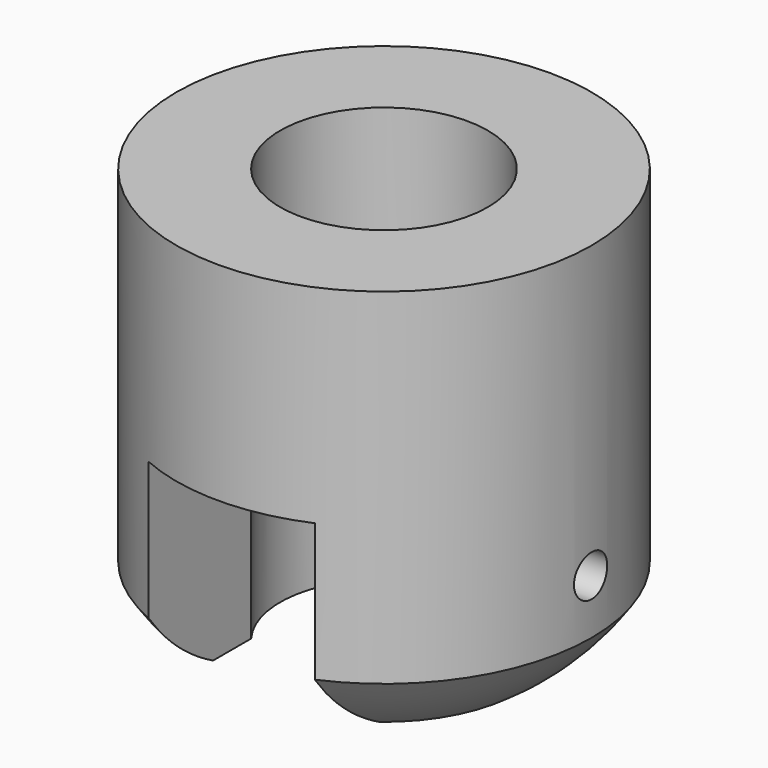
from build123d import *

# Parameters (mm, degrees)
CYLINDER011_R     = 3
CYLINDER011_DEPTH = 10
CYLINDER010_R     = 5
CYLINDER010_DEPTH = 4
CYLINDER009_R     = 0.5
CYLINDER009_DEPTH = 10
CYLINDER007_R     = 2.5
CYLINDER007_DEPTH = 10
BOX001_W          = 4
BOX001_H          = 10
BOX001_DEPTH      = 5
CYLINDER008_R     = 5
CYLINDER008_DEPTH = 10


with BuildPart() as cylinder011:
    # Cylinder011 → Cylinder011 (new body)
    with BuildSketch(Plane(origin=(18, 0, -6), x_dir=(1, 0, 0), z_dir=(0, 0, 1))):
        Circle(CYLINDER011_R)
    extrude(amount=CYLINDER011_DEPTH)


with BuildPart() as cut006:
    # Cylinder010 → Cylinder010 (new body)
    with BuildSketch(Plane(origin=(18, 0, -4), x_dir=(1, 0, 0), z_dir=(0, 0, 1))):
        Circle(CYLINDER010_R)
    extrude(amount=CYLINDER010_DEPTH)

    # Cut006: cut Cylinder011
    add(cylinder011.part, mode=Mode.SUBTRACT)


with BuildPart() as cut006_1:
    # Cut006 placement: moved
    add(cut006.part.moved(Location((-18, 0, 0))))


with BuildPart() as sphere002:
    # Sphere002 → Sphere002 (revolve)
    with BuildSketch(Plane(origin=(0, 0, -5), x_dir=(1, 0, 0), z_dir=(0, -1, 0))):
        with BuildLine():
            ThreePointArc((0, -6), (6, 0), (0, 6))
            Line((0, 6), (0, -6))
        make_face()
    revolve(axis=Axis((0, 0, -5), (0, 0, 1)))


with BuildPart() as cylinder009:
    # Cylinder009 → Cylinder009 (new body)
    with BuildSketch(Plane(origin=(5, 0, -7), x_dir=(0, 0, 1), z_dir=(-1, 0, 0))):
        Circle(CYLINDER009_R)
    extrude(amount=CYLINDER009_DEPTH)


with BuildPart() as cylinder007:
    # Cylinder007 → Cylinder007 (new body)
    with BuildSketch(Plane.XY.offset(-10)):
        Circle(CYLINDER007_R)
    extrude(amount=CYLINDER007_DEPTH)


with BuildPart() as cube001:
    # Box001 → Box001 (new body)
    with BuildSketch(Plane(origin=(-2, -5, -10), x_dir=(1, 0, 0), z_dir=(0, 0, 1))):
        with Locations((2, 5)):
            Rectangle(BOX001_W, BOX001_H)
    extrude(amount=BOX001_DEPTH)


with BuildPart() as fusion002:
    # Cylinder008 → Cylinder008 (new body)
    with BuildSketch(Plane.XY.offset(-10)):
        Circle(CYLINDER008_R)
    extrude(amount=CYLINDER008_DEPTH)

    # Cut005: cut Cube001
    add(cube001.part, mode=Mode.SUBTRACT)

    # Cut008: cut Cylinder007
    add(cylinder007.part, mode=Mode.SUBTRACT)

    # Cut007: cut Cylinder009
    add(cylinder009.part, mode=Mode.SUBTRACT)

    # Common001: intersect Sphere002
    add(sphere002.part, mode=Mode.INTERSECT)

    # Fusion003: union Cut006
    add(cut006_1.part)


with BuildPart() as fusion002_1:
    # Fusion002 placement: moved
    add(fusion002.part.moved(Location((24, 0, -26))))


solid = fusion002_1.part
